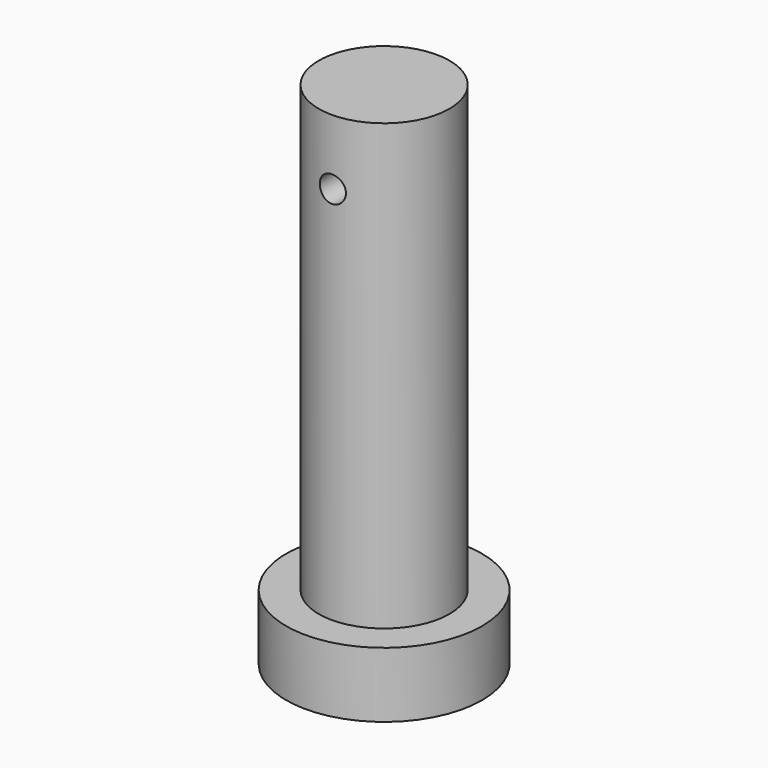
from build123d import *

# Parameters (mm, degrees)
SKETCH_R          = 22.5
PAD_DEPTH         = 14.98
SKETCH001_R       = 15
PAD001_DEPTH      = 102.12
SKETCH003_R       = 3
POCKET_DEPTH      = 22.501
POCKET_DEPTH_BACK = -22.501


with BuildPart() as part:
    # Sketch → Pad (new body)
    with BuildSketch(Plane.XY):
        Circle(SKETCH_R)
    extrude(amount=PAD_DEPTH)

    # Sketch001 (on Face3 of Pad) → Pad001 (join)
    with BuildSketch(Plane.XY.offset(14.98)):
        Circle(SKETCH001_R)
    extrude(amount=PAD001_DEPTH)

    # Sketch003 → Pocket (cut, two sides)
    with BuildSketch(Plane.XZ) as pocket_sk:
        with Locations((0, 102.1)):
            Circle(SKETCH003_R)
    extrude(amount=-POCKET_DEPTH, mode=Mode.SUBTRACT)
    extrude(pocket_sk.sketch, amount=-POCKET_DEPTH_BACK, mode=Mode.SUBTRACT)


solid = part.part
